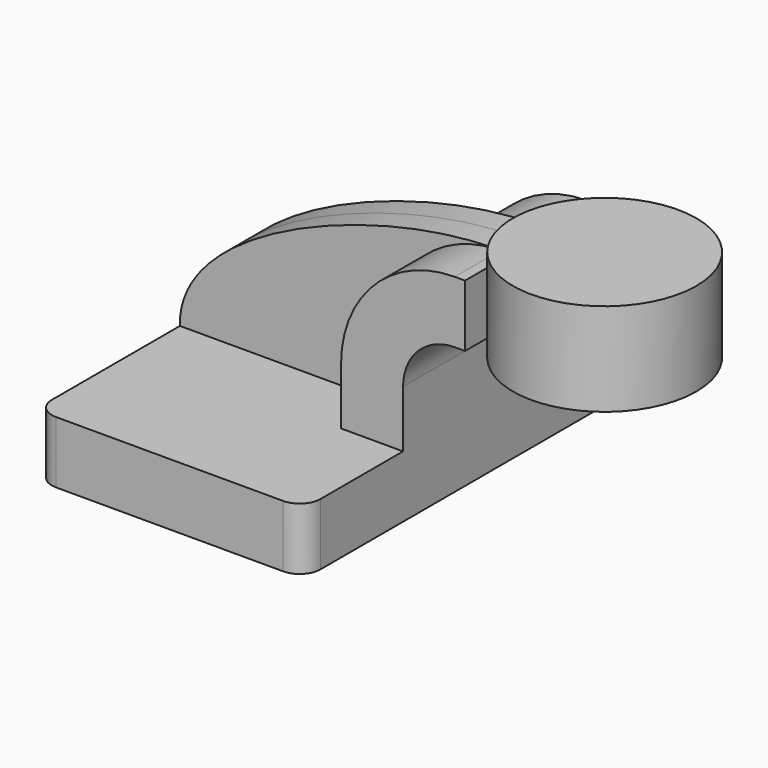
from build123d import *

# Parameters (mm, degrees)
F1_DEPTH = 63.5
F2_DEPTH = 25.4
F3_DEPTH = 7.9375
F5_R     = 6.35


with BuildPart() as f1:
    # F0 (on Front) → F1 (new body, symmetric)
    with BuildSketch(Plane.XZ):
        Polygon((41.275, -9.525), (41.275, 9.525), (22.225, 9.525), (-41.275, 9.525), (-41.275, -9.525), align=None)
    extrude(amount=F1_DEPTH, both=True)

    # F0 (on Front) → F2 (join, symmetric)
    with BuildSketch(Plane.XZ):
        with BuildLine():
            Line((22.225, 9.525), (41.275, 9.525))
            Line((41.275, 9.525), (41.275, 27.0002))
            ThreePointArc((41.275, 27.0002), (45.92468, 38.22552), (57.15, 42.8752))
            Line((57.15, 42.8752), (60.325, 42.8752))
            Line((60.325, 42.8752), (60.325, 61.9252))
            Line((60.325, 61.9252), (57.15, 61.9252))
            ThreePointArc((57.15, 61.9252), (32.454296, 51.695904), (22.225, 27.0002))
            Line((22.225, 27.0002), (22.225, 9.525))
        make_face()
    extrude(amount=F2_DEPTH, both=True)

    # F0 (on Front) → F3 (join, symmetric)
    with BuildSketch(Plane.XZ):
        with BuildLine():
            Line((-41.275, 9.525), (22.225, 9.525))
            Line((22.225, 9.525), (22.225, 27.0002))
            ThreePointArc((22.225, 27.0002), (32.454296, 51.695904), (57.15, 61.9252))
            add(Edge.make_bspline(
                [(-41.275, 9.525), (-42.136356, 39.629813), (22.141983, 62.799598), (57.15, 61.9252)],
                knots=[0, 0, 0, 0, 111.504536, 111.504536, 111.504536, 111.504536], degree=3))
        make_face()
    extrude(amount=F3_DEPTH, both=True)

    # F0 (on Front) → F4 (revolve)
    with BuildSketch(Plane.XZ):
        Polygon((82.928714, 61.9252), (82.928714, 42.8752), (82.928714, 38.1), (111.125, 38.1), (111.125, 66.675), (82.928714, 66.675), align=None)
    revolve(axis=Axis((82.928714, 0, 52.3875), (0, 0, 1)))

    # F5
    f5_edges = [f1.edges().sort_by_distance(p)[0] for p in [
        (41.275, -63.5, 0),
        (-41.275, -63.5, 0),
        (41.275, 63.5, 0),
        (-41.275, 63.5, 0),
    ]]
    fillet(f5_edges, radius=F5_R)


solid = f1.part
